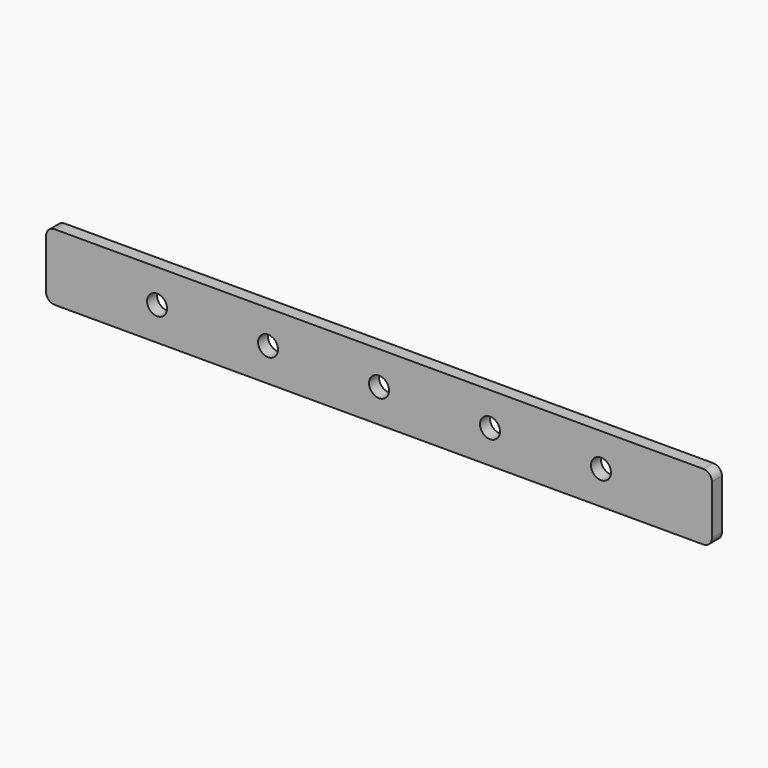
from build123d import *

# Parameters (mm, degrees)
F0_R     = 3.81
F1_DEPTH = 4.7625


with BuildPart() as f1:
    # F0 (on Front) → F1 (new body)
    with BuildSketch(Plane.XZ):
        with BuildLine():
            ThreePointArc((127, 9.398), (126.032867, 11.732867), (123.698, 12.7))
            Line((123.698, 12.7), (-123.698, 12.7))
            ThreePointArc((-123.698, 12.7), (-126.032867, 11.732867), (-127, 9.398))
            Line((-127, 9.398), (-127, -9.398))
            ThreePointArc((-127, -9.398), (-126.032867, -11.732867), (-123.698, -12.7))
            Line((-123.698, -12.7), (123.698, -12.7))
            ThreePointArc((123.698, -12.7), (126.032867, -11.732867), (127, -9.398))
            Line((127, -9.398), (127, 9.398))
        make_face()
        with Locations((-84.666668, 0)):
            Circle(F0_R, mode=Mode.SUBTRACT)
        with Locations((-42.333335, 0)):
            Circle(F0_R, mode=Mode.SUBTRACT)
        with Locations((-2e-06, 0)):
            Circle(F0_R, mode=Mode.SUBTRACT)
        with Locations((42.333331, 0)):
            Circle(F0_R, mode=Mode.SUBTRACT)
        with Locations((84.666664, 0)):
            Circle(F0_R, mode=Mode.SUBTRACT)
    extrude(amount=F1_DEPTH)


solid = f1.part
